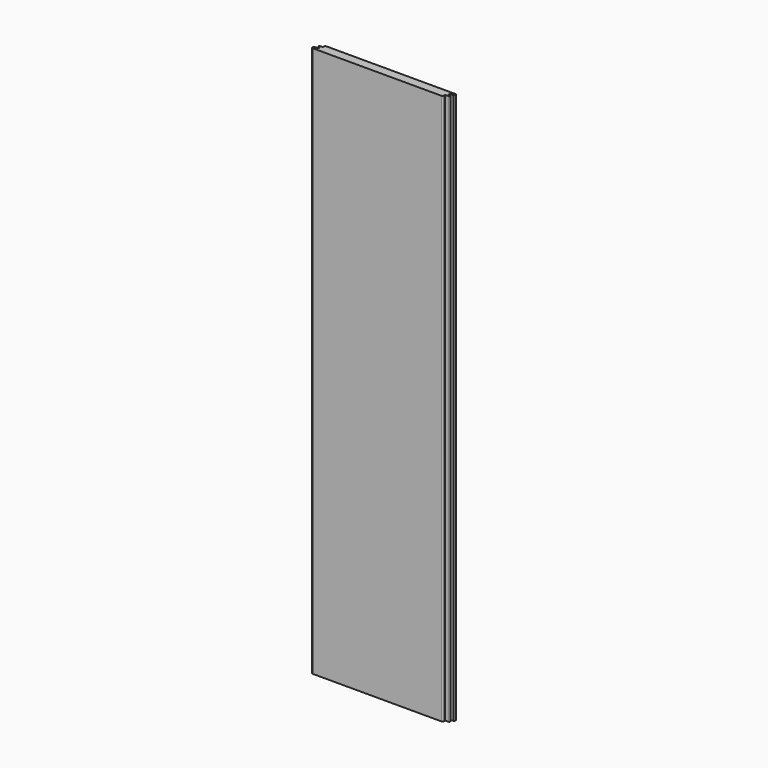
from build123d import *

# Parameters (mm, degrees)
F1_DEPTH = 3048


with BuildPart() as f1:
    # F0 (on Top) → F1 (new body)
    with BuildSketch(Plane.XY):
        with BuildLine():
            Line((375.683069, 25.4), (-339.230995, 25.4))
            ThreePointArc((-339.230995, 25.4), (-343.721123, 23.540128), (-345.580995, 19.05))
            Line((-345.580995, 19.05), (-345.580995, 10.229934))
            Line((-345.580995, 10.229934), (-359.675169, 10.229934))
            ThreePointArc((-359.675169, 10.229934), (-365.437749, 4.467354), (-359.675169, -1.295227))
            Line((-359.675169, -1.295227), (-354.32294, -1.295227))
            Line((-354.32294, -1.295227), (-354.32294, -10.346132))
            Line((-354.32294, -10.346132), (-375.50205, -10.346132))
            ThreePointArc((-375.50205, -10.346132), (-380.854683, -17.80979), (-375.683069, -25.4))
            Line((-375.683069, -25.4), (339.230995, -25.4))
            ThreePointArc((339.230995, -25.4), (343.721123, -23.540128), (345.580995, -19.05))
            Line((345.580995, -19.05), (345.580995, -9.022805))
            Line((345.580995, -9.022805), (364.278942, -9.022805))
            ThreePointArc((364.278942, -9.022805), (369.437958, -3.863789), (364.278942, 1.295227))
            Line((364.278942, 1.295227), (354.32294, 1.295227))
            Line((354.32294, 1.295227), (354.32294, 10.346132))
            Line((354.32294, 10.346132), (375.50205, 10.346132))
            ThreePointArc((375.50205, 10.346132), (380.854683, 17.80979), (375.683069, 25.4))
        make_face()
    extrude(amount=F1_DEPTH)


solid = f1.part
